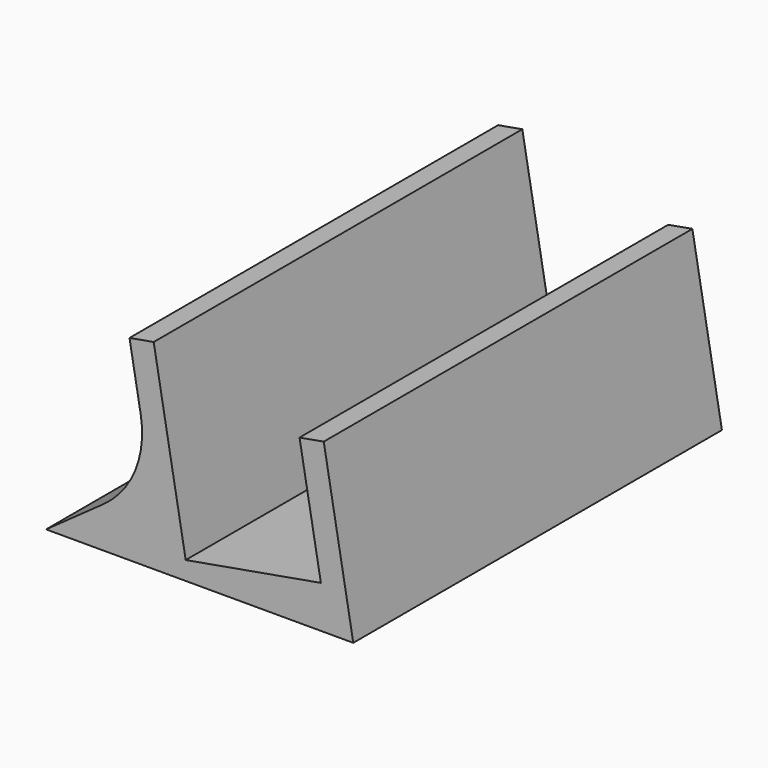
from build123d import *

# Parameters (mm, degrees)
F1_DEPTH = 75


with BuildPart() as f1:
    # F0 (on Front) → F1 (new body)
    with BuildSketch(Plane.XZ):
        with BuildLine():
            Line((22, 3.879194), (0, 0))
            Line((0, 0), (-5.209445, 29.544233))
            Line((-5.209445, 29.544233), (-9.148676, 28.84964))
            Line((-9.148676, 28.84964), (-7.319728, 18.477157))
            ThreePointArc((-7.319728, 18.477157), (-8.209606, 10.190581), (-13.385038, 3.658036))
            Line((-13.385038, 3.658036), (-22.725306, -3))
            Line((-22.725306, -3), (27.274694, -3))
            Line((27.274694, -3), (22.466267, 24.269941))
            Line((22.466267, 24.269941), (18.527036, 23.575349))
            Line((18.527036, 23.575349), (22, 3.879194))
        make_face()
    extrude(amount=F1_DEPTH)


solid = f1.part
